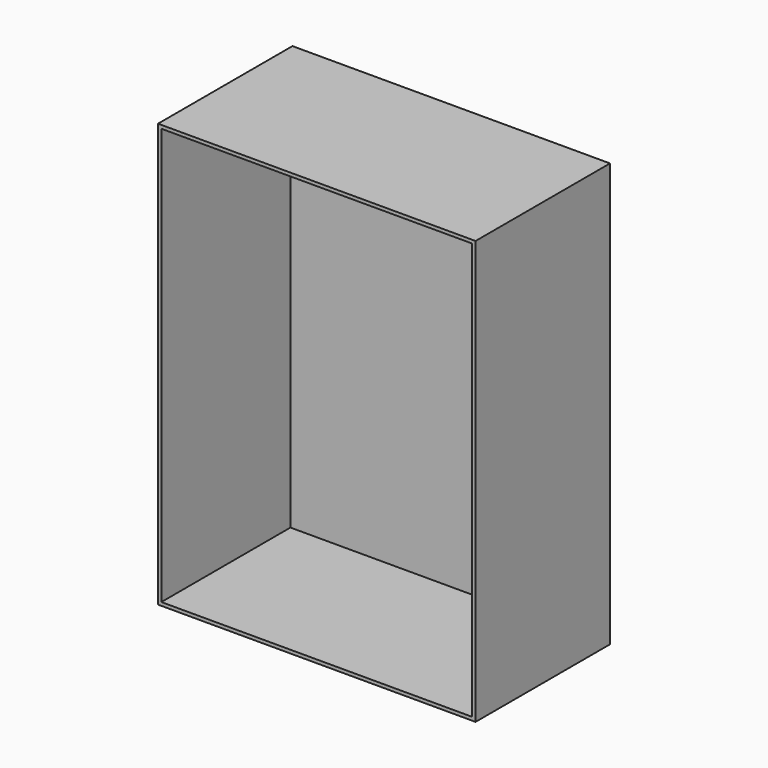
from build123d import *

# Parameters (mm, degrees)
F0_W        = 300
F0_H        = 400
F0_W_2      = 293.65
F0_H_2      = 393.65
F1_DEPTH    = 152.4
F1_FACE_W   = 300
F1_FACE_H   = 400
F1_FACE_W_2 = 293.65
F1_FACE_H_2 = 393.65
F2_DEPTH    = 6.35


with BuildPart() as f1:
    # F0 (on Front) → F1 (new body)
    with BuildSketch(Plane.XZ):
        Rectangle(F0_W, F0_H)
        Rectangle(F0_W_2, F0_H_2, mode=Mode.SUBTRACT)
    extrude(amount=F1_DEPTH)

    # F1_face (on face) + F0 (on Front) → F2 (join)
    with BuildSketch(Plane(origin=(0, 0, 0), x_dir=(1, 0, 0), z_dir=(0, 1, 0))):
        Rectangle(F1_FACE_W, F1_FACE_H)
        Rectangle(F1_FACE_W_2, F1_FACE_H_2, mode=Mode.SUBTRACT)
    with BuildSketch(Plane.XZ):
        Rectangle(F0_W_2, F0_H_2)
    extrude(amount=F2_DEPTH, dir=(0, 1, 0))


solid = f1.part
